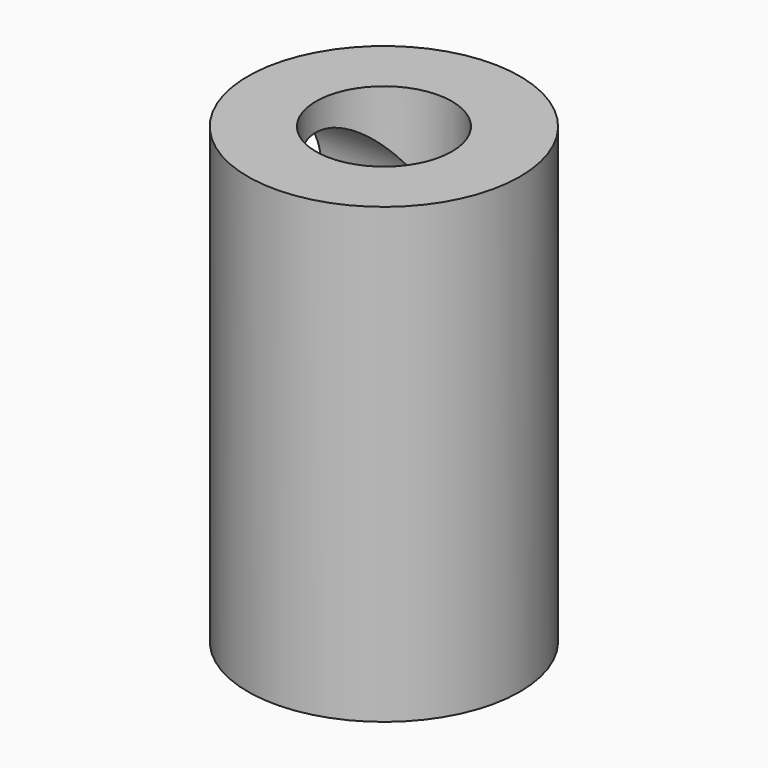
from build123d import *

# Parameters (mm, degrees)
CYLINDER003_R           = 1.5
CYLINDER003_DEPTH       = 10
CYLINDER003_PITCH_ANGLE = -90
CYLINDER002_R           = 1.5
CYLINDER002_DEPTH       = 8
CYLINDER_R              = 1.5
CYLINDER_DEPTH          = 10
CYLINDER_PITCH_ANGLE    = -90
CYLINDER001_R           = 2
CYLINDER001_DEPTH       = 8
SKETCH_R                = 3
PAD_DEPTH               = 10


with BuildPart() as cilindro003:
    # Cylinder003 → Cylinder003 (new body)
    with BuildSketch(Plane.XY):
        Circle(CYLINDER003_R)
    extrude(amount=CYLINDER003_DEPTH)


with BuildPart() as cilindro003_1:
    # Cylinder003 pitch: moved
    add(cilindro003.part.rotate(Axis((0, 0, 0), (0, 1, 0)), CYLINDER003_PITCH_ANGLE))


with BuildPart() as cilindro003_2:
    # Cylinder003 placement: moved
    add(cilindro003_1.part.moved(Location((0.071563, 0, 7.897581))))


with BuildPart() as cilindro002:
    # Cylinder002 → Cylinder002 (new body)
    with BuildSketch(Plane.XY.offset(5)):
        Circle(CYLINDER002_R)
    extrude(amount=CYLINDER002_DEPTH)


with BuildPart() as cilindro:
    # Cylinder → Cylinder (new body)
    with BuildSketch(Plane.XY):
        Circle(CYLINDER_R)
    extrude(amount=CYLINDER_DEPTH)


with BuildPart() as cilindro_1:
    # Cylinder pitch: moved
    add(cilindro.part.rotate(Axis((0, 0, 0), (0, 1, 0)), CYLINDER_PITCH_ANGLE))


with BuildPart() as cilindro_2:
    # Cylinder placement: moved
    add(cilindro_1.part.moved(Location((1.071563, 0, 1.897581))))


with BuildPart() as cilindro001:
    # Cylinder001 → Cylinder001 (new body)
    with BuildSketch(Plane.XY.offset(-3)):
        Circle(CYLINDER001_R)
    extrude(amount=CYLINDER001_DEPTH)


with BuildPart() as cut003:
    # Sketch → Pad (new body)
    with BuildSketch(Plane.XY):
        Circle(SKETCH_R)
    extrude(amount=PAD_DEPTH)

    # Cut: cut Cilindro001
    add(cilindro001.part, mode=Mode.SUBTRACT)

    # Cut001: cut Cilindro
    add(cilindro_2.part, mode=Mode.SUBTRACT)

    # Cut002: cut Cilindro002
    add(cilindro002.part, mode=Mode.SUBTRACT)

    # Cut003: cut Cilindro003
    add(cilindro003_2.part, mode=Mode.SUBTRACT)


solid = cut003.part
